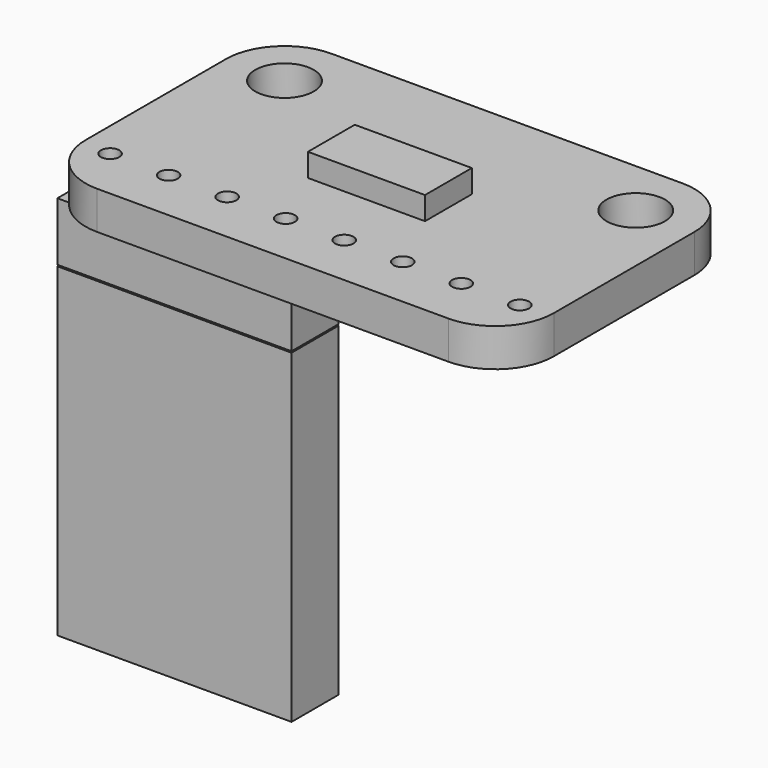
from build123d import *

# Parameters (mm, degrees)
PAD_DEPTH              = 1.65
SKETCH001_R            = 1.27
POCKET_DEPTH           = 1.651
SKETCH002_R            = 0.4
POCKET001_DEPTH        = 1.651
LINEARPATTERN_COUNT    = 4
LINEARPATTERN_PITCH    = 2.54
LINEARPATTERN001_COUNT = 3
LINEARPATTERN001_PITCH = 5.08
SKETCH003_W            = 5.08
SKETCH003_H            = 2.54
PAD001_DEPTH           = 1
SKETCH004_W            = 10.16
SKETCH004_H            = 2.54
PAD002_DEPTH           = 2.54
SKETCH005_W            = 9.56
SKETCH005_H            = 8.74
PAD003_DEPTH           = 0.3
SKETCH006_W            = 1.94
SKETCH006_H            = 12.4
POCKET002_DEPTH        = 0.301
POCKET002_DEPTH_BACK   = 0.301
LINEARPATTERN002_COUNT = 3
LINEARPATTERN002_PITCH = 5.08
SKETCH007_W            = 10.16
SKETCH007_H            = 2.54
PAD004_DEPTH           = 14.1


with BuildPart() as mainboard001:
    # Sketch → Pad (new body)
    with BuildSketch(Plane.XY):
        with BuildLine():
            Line((-7.62, 6.35), (7.62, 6.35))
            ThreePointArc((10.16, 3.81), (9.416051, 5.606051), (7.62, 6.35))
            Line((10.16, 3.81), (10.16, -3.81))
            ThreePointArc((7.62, -6.35), (9.416051, -5.606051), (10.16, -3.81))
            Line((7.62, -6.35), (-7.62, -6.35))
            ThreePointArc((-10.16, -3.81), (-9.416051, -5.606051), (-7.62, -6.35))
            Line((-10.16, -3.81), (-10.16, 3.81))
            ThreePointArc((-7.62, 6.35), (-9.416051, 5.606051), (-10.16, 3.81))
        make_face()
    extrude(amount=-PAD_DEPTH)

    # Sketch001 → Pocket (cut, through all)
    with BuildSketch(Plane.XY):
        with Locations((-7.62, 3.81)):
            Circle(SKETCH001_R)
        with Locations((7.62, 3.81)):
            Circle(SKETCH001_R)
    extrude(amount=-POCKET_DEPTH, mode=Mode.SUBTRACT)

    # Sketch002 → Pocket001 (cut, through all)
    with BuildSketch(Plane.XY):
        with Locations((-1.27, -4.064)):
            Circle(SKETCH002_R)
        with Locations((1.27, -4.064)):
            Circle(SKETCH002_R)
    pocket001 = extrude(amount=-POCKET001_DEPTH, mode=Mode.SUBTRACT)

    # LinearPattern: Pocket001 ×4
    with Locations(*[(i * LINEARPATTERN_PITCH, 0, 0) for i in range(1, LINEARPATTERN_COUNT)]):
        add(pocket001, mode=Mode.SUBTRACT)

    # LinearPattern001: Pocket001 ×3
    with Locations(*[(-i * LINEARPATTERN001_PITCH, 0, 0) for i in range(1, LINEARPATTERN001_COUNT)]):
        add(pocket001, mode=Mode.SUBTRACT)


with BuildPart() as chip:
    # Sketch003 → Pad001 (new body)
    with BuildSketch(Plane.XY):
        Rectangle(SKETCH003_W, SKETCH003_H)
    extrude(amount=PAD001_DEPTH)


with BuildPart() as pinblock:
    # Sketch004 → Pad002 (new body)
    with BuildSketch(Plane.XY):
        with Locations((-5.08, -4.064)):
            Rectangle(SKETCH004_W, SKETCH004_H)
    extrude(amount=-PAD002_DEPTH)


with BuildPart() as pinblock_1:
    # Body002 placement: moved
    add(pinblock.part.moved(Location((0, 0, -1.6))))


with BuildPart() as pins:
    # Sketch005 → Pad003 (new body, symmetric)
    with BuildSketch(Plane.XZ):
        with Locations((-5.08, -4.37)):
            Rectangle(SKETCH005_W, SKETCH005_H)
    extrude(amount=PAD003_DEPTH, both=True)

    # Sketch006 → Pocket002 (cut, two sides)
    with BuildSketch(Plane.XZ) as pocket002_sk:
        with Locations((0, -8.44)):
            Rectangle(SKETCH006_W, SKETCH006_H)
        with Locations((-2.54, -8.44)):
            Rectangle(SKETCH006_W, SKETCH006_H)
    pocket002 = extrude(amount=-POCKET002_DEPTH, mode=Mode.SUBTRACT) + extrude(pocket002_sk.sketch, amount=POCKET002_DEPTH_BACK, mode=Mode.SUBTRACT)

    # LinearPattern002: Pocket002 ×3
    with Locations(*[(-i * LINEARPATTERN002_PITCH, 0, 0) for i in range(1, LINEARPATTERN002_COUNT)]):
        add(pocket002, mode=Mode.SUBTRACT)


with BuildPart() as pins_1:
    # Body003 placement: moved
    add(pins.part.moved(Location((0, -4.1, -1.6))))


with BuildPart() as jumperheader:
    # Sketch007 → Pad004 (new body)
    with BuildSketch(Plane.XY):
        with Locations((-5.08, -4.064)):
            Rectangle(SKETCH007_W, SKETCH007_H)
    extrude(amount=-PAD004_DEPTH)


with BuildPart() as jumperheader_1:
    # Body004 placement: moved
    add(jumperheader.part.moved(Location((0, 0, -4.2))))


solid = Compound([mainboard001.part, chip.part, pinblock_1.part, pins_1.part, jumperheader_1.part])
